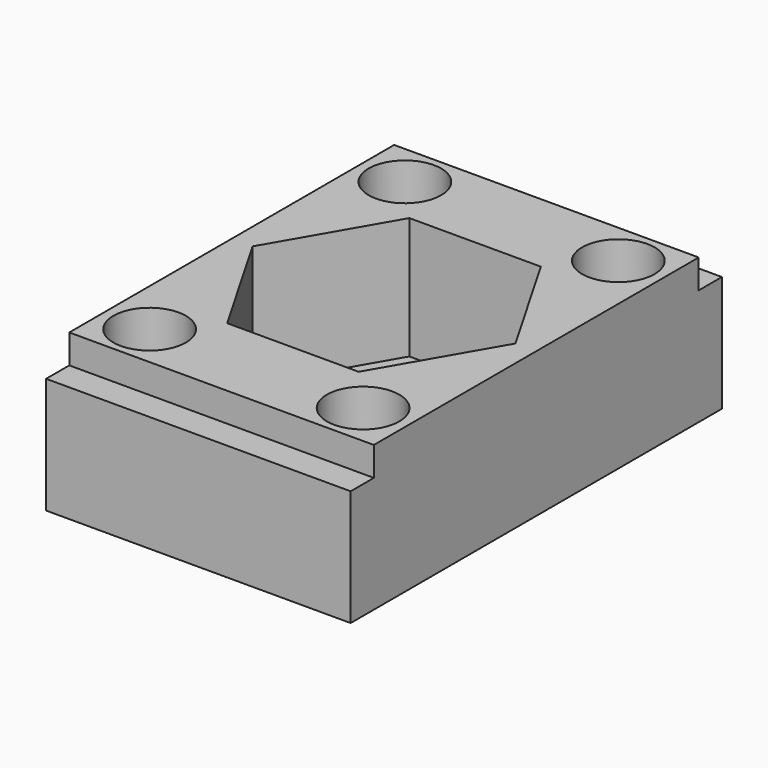
from build123d import *

# Parameters (mm, degrees)
BOX_W           = 21
BOX_H           = 32
BOX_DEPTH       = 10
POCKET_DEPTH    = 8.4
SKETCH002_W     = 21
SKETCH002_H     = 2
POCKET001_DEPTH = 2
SKETCH001_R     = 2.5
POCKET002_DEPTH = 10.001


with BuildPart() as part:
    # Box → Box (new body)
    with BuildSketch(Plane.XY):
        with Locations((10.5, 16)):
            Rectangle(BOX_W, BOX_H)
    extrude(amount=BOX_DEPTH)

    # Sketch → Pocket (cut)
    with BuildSketch(Plane.XY.offset(10)):
        Polygon((1.435601, 16), (5.9678, 23.850001), (15.0322, 23.850001), (19.564399, 16), (15.0322, 8.149999), (5.9678, 8.149999), align=None)
    extrude(amount=-POCKET_DEPTH, mode=Mode.SUBTRACT)

    # Sketch002 → Pocket001 (cut)
    with BuildSketch(Plane.XY.offset(10)):
        with Locations((10.5, 31)):
            Rectangle(SKETCH002_W, SKETCH002_H)
        with Locations((10.5, 1)):
            Rectangle(SKETCH002_W, SKETCH002_H)
    extrude(amount=-POCKET001_DEPTH, mode=Mode.SUBTRACT)

    # Sketch001 → Pocket002 (cut, through all)
    with BuildSketch(Plane.XY.offset(10)):
        with Locations((3.140495, 27)):
            Circle(SKETCH001_R)
        with Locations((17.859505, 27)):
            Circle(SKETCH001_R)
        with Locations((3.140495, 5)):
            Circle(SKETCH001_R)
        with Locations((17.859505, 5)):
            Circle(SKETCH001_R)
    extrude(amount=-POCKET002_DEPTH, mode=Mode.SUBTRACT)


solid = part.part
